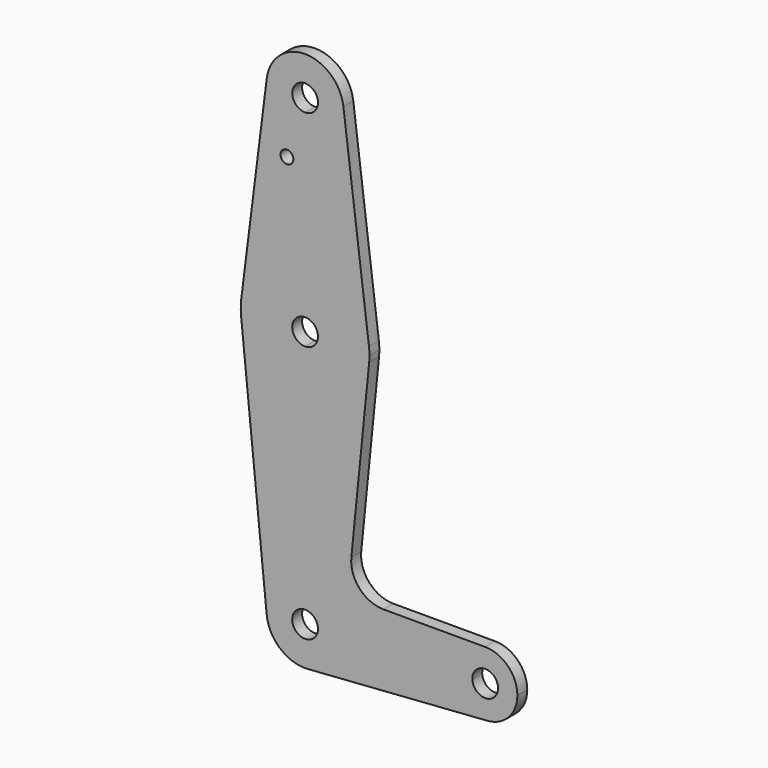
from build123d import *

# Parameters (mm, degrees)
F0_R     = 1.5875
F1_DEPTH = 3.048


with BuildPart() as f1:
    # F0 (on Front) → F1 (new body)
    with BuildSketch(Plane.XZ):
        with BuildLine():
            ThreePointArc((0, -3.175), (-3.175, 0), (0, 3.175))
            Line((0, 3.175), (0, 15.875))
            ThreePointArc((0, 15.875), (-10.5003255158, 11.90625), (-15.7504882737, 1.984375))
            ThreePointArc((-15.7504882737, 1.984375), (-15.8737438155, 0.1997054867), (-15.7954255641, -1.5875))
            ThreePointArc((-15.7954255641, -1.5875), (-10.6492737428, -11.7732150983), (0, -15.875))
            Line((0, -15.875), (0, -3.175))
        make_face()
        with BuildLine():
            Line((0, 15.875), (0, 3.175))
            ThreePointArc((0, 3.175), (2.2450640303, 2.2450640303), (3.175, 0))
            ThreePointArc((3.175, 0), (2.2450640303, -2.2450640303), (0, -3.175))
            Line((0, -3.175), (0, -15.875))
            ThreePointArc((0, -15.875), (10.6492737428, -11.7732150983), (15.7954255641, -1.5875))
            ThreePointArc((15.7954255641, -1.5875), (15.8550939106, -0.7947465541), (15.875, 0))
            ThreePointArc((15.875, 0), (15.8438414904, 0.9941387366), (15.7504882737, 1.984375))
            ThreePointArc((15.7504882737, 1.984375), (10.5003255158, 11.90625), (0, 15.875))
        make_face()
        with BuildLine():
            ThreePointArc((-15.7504882737, 1.984375), (-10.5003255158, 11.90625), (0, 15.875))
            Line((0, 15.875), (0, 41.275))
            ThreePointArc((0, 41.275), (-7.14375, 44.4998046905), (-9.4502929642, 51.990625))
            Line((-9.4502929642, 51.990625), (-15.7504882737, 1.984375))
        make_face()
        with Locations((-4.473100882, 36.5252)):
            Circle(F0_R, mode=Mode.SUBTRACT)
        with BuildLine():
            Line((0, 41.275), (0, 15.875))
            ThreePointArc((0, 15.875), (10.5003255158, 11.90625), (15.7504882737, 1.984375))
            Line((15.7504882737, 1.984375), (9.4502929642, 51.990625))
            ThreePointArc((9.4502929642, 51.990625), (9.5063048942, 51.396483242), (9.525, 50.8))
            ThreePointArc((9.525, 50.8), (6.7351920908, 44.0648079092), (0, 41.275))
        make_face()
        with BuildLine():
            ThreePointArc((15.7954255641, -1.5875), (10.6492737428, -11.7732150983), (0, -15.875))
            Line((0, -15.875), (0, -53.975))
            ThreePointArc((0, -53.975), (6.6138273378, -56.6455917143), (9.5189234444, -63.1598214286))
            Line((9.5189234444, -63.1598214286), (36.4892065367, -62.1959821429))
            ThreePointArc((36.4892065367, -62.1959821429), (38.7096358356, -56.4009772185), (44.4216427403, -53.975))
            Line((44.4216427403, -53.975), (19.3195605121, -53.975))
            ThreePointArc((19.3195605121, -53.975), (13.4235343909, -51.3579562904), (11.4092113897, -45.22978))
            Line((11.4092113897, -45.22978), (15.7954255641, -1.5875))
        make_face()
        with BuildLine():
            Line((0, -53.975), (0, -15.875))
            ThreePointArc((0, -15.875), (-10.6492737428, -11.7732150983), (-15.7954255641, -1.5875))
            Line((-15.7954255641, -1.5875), (-9.4772553384, -64.4525))
            ThreePointArc((-9.4772553384, -64.4525), (-7.063929059, -57.1104357543), (0, -53.975))
        make_face()
        with BuildLine():
            ThreePointArc((-9.4502929642, 51.990625), (-7.14375, 44.4998046905), (0, 41.275))
            ThreePointArc((0, 41.275), (6.7351920908, 44.0648079092), (9.525, 50.8))
            ThreePointArc((9.525, 50.8), (9.5063048942, 51.396483242), (9.4502929642, 51.990625))
            ThreePointArc((9.4502929642, 51.990625), (0, 60.325), (-9.4502929642, 51.990625))
        make_face()
        with BuildLine():
            ThreePointArc((3.175, 50.8), (2.2450640303, 48.5549359697), (0, 47.625))
            ThreePointArc((0, 47.625), (-2.2450640303, 53.0450640303), (3.175, 50.8))
        make_face(mode=Mode.SUBTRACT)
        with BuildLine():
            Line((0, -60.325), (0, -53.975))
            ThreePointArc((0, -53.975), (-7.063929059, -57.1104357543), (-9.4772553384, -64.4525))
            ThreePointArc((-9.4772553384, -64.4525), (-6.1332047876, -70.7876212877), (0.6799231032, -73.0007015306))
            ThreePointArc((0.6799231032, -73.0007015306), (6.9714378918, -69.9903527424), (9.525, -63.5))
            ThreePointArc((9.525, -63.5), (9.5234807399, -63.3298835803), (9.5189234444, -63.1598214286))
            Line((9.5189234444, -63.1598214286), (3.1729744815, -63.3866071429))
            ThreePointArc((3.1729744815, -63.3866071429), (3.17449358, -63.4432945268), (3.175, -63.5))
            ThreePointArc((3.175, -63.5), (-2.2450640303, -65.7450640303), (0, -60.325))
        make_face()
        with BuildLine():
            Line((36.4892065367, -62.1959821429), (9.5189234444, -63.1598214286))
            ThreePointArc((9.5189234444, -63.1598214286), (9.5234807399, -63.3298835803), (9.525, -63.5))
            ThreePointArc((9.525, -63.5), (6.9714378918, -69.9903527424), (0.6799231032, -73.0007015306))
            Line((0.6799231032, -73.0007015306), (44.9882453263, -69.8297512755))
            ThreePointArc((44.9882453263, -69.8297512755), (39.1176363288, -67.8177029801), (36.4892065367, -62.1959821429))
        make_face()
        with BuildLine():
            ThreePointArc((44.4216427403, -53.975), (38.7096358356, -56.4009772185), (36.4892065367, -62.1959821429))
            ThreePointArc((36.4892065367, -62.1959821429), (39.1176363288, -67.8177029801), (44.9882453263, -69.8297512755))
            ThreePointArc((44.9882453263, -69.8297512755), (50.2311743168, -67.3211272854), (52.3591427403, -61.9125))
            ThreePointArc((52.3591427403, -61.9125), (50.034302816, -56.2998399243), (44.4216427403, -53.975))
        make_face()
        with BuildLine():
            ThreePointArc((47.5966427403, -61.9125), (44.4783482136, -65.08699358), (41.2486682589, -62.0258928571))
            ThreePointArc((41.2486682589, -62.0258928571), (44.3649372671, -58.73800642), (47.5966427403, -61.9125))
        make_face(mode=Mode.SUBTRACT)
        with BuildLine():
            ThreePointArc((9.5189234444, -63.1598214286), (6.6138273378, -56.6455917143), (0, -53.975))
            Line((0, -53.975), (0, -60.325))
            ThreePointArc((0, -60.325), (2.2046091126, -61.2151972381), (3.1729744815, -63.3866071429))
            Line((3.1729744815, -63.3866071429), (9.5189234444, -63.1598214286))
        make_face()
    extrude(amount=F1_DEPTH)


solid = f1.part
